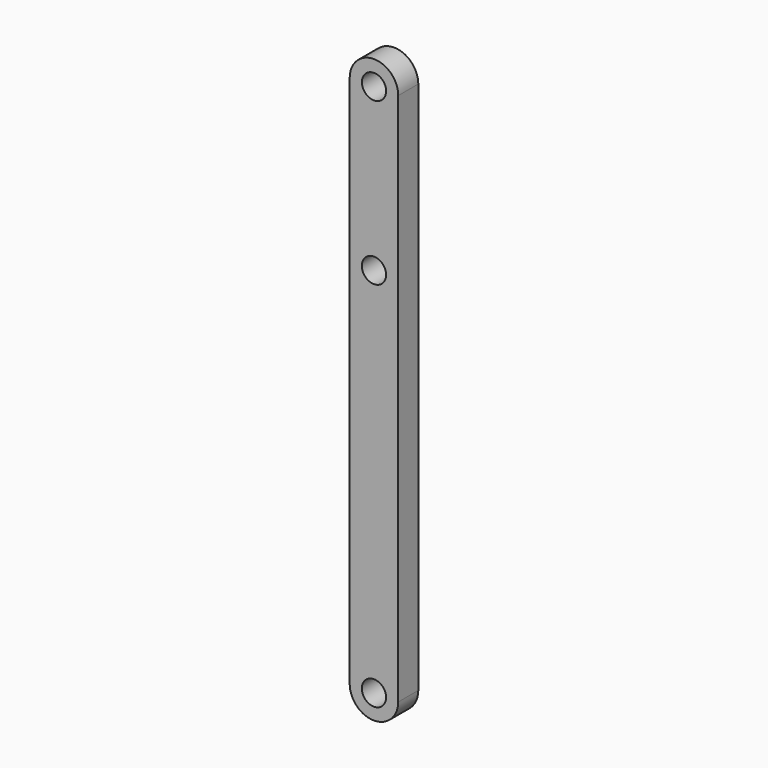
from build123d import *

# Parameters (mm, degrees)
F0_R     = 1.5
F1_DEPTH = 3.1


with BuildPart() as f1:
    # F0 (on Front) → F1 (new body)
    with BuildSketch(Plane.XZ):
        with BuildLine():
            Line((3, 0), (3, 33))
            ThreePointArc((3, 33), (0, 36), (-3, 33))
            Line((-3, 33), (-3, 0))
            Line((-3, 0), (-3, -33))
            ThreePointArc((-3, -33), (0, -36), (3, -33))
            Line((3, -33), (3, 0))
        make_face()
        with Locations((0, -33)):
            Circle(F0_R, mode=Mode.SUBTRACT)
        with Locations((0, 13)):
            Circle(F0_R, mode=Mode.SUBTRACT)
        with Locations((0, 33)):
            Circle(F0_R, mode=Mode.SUBTRACT)
    extrude(amount=F1_DEPTH)


solid = f1.part
